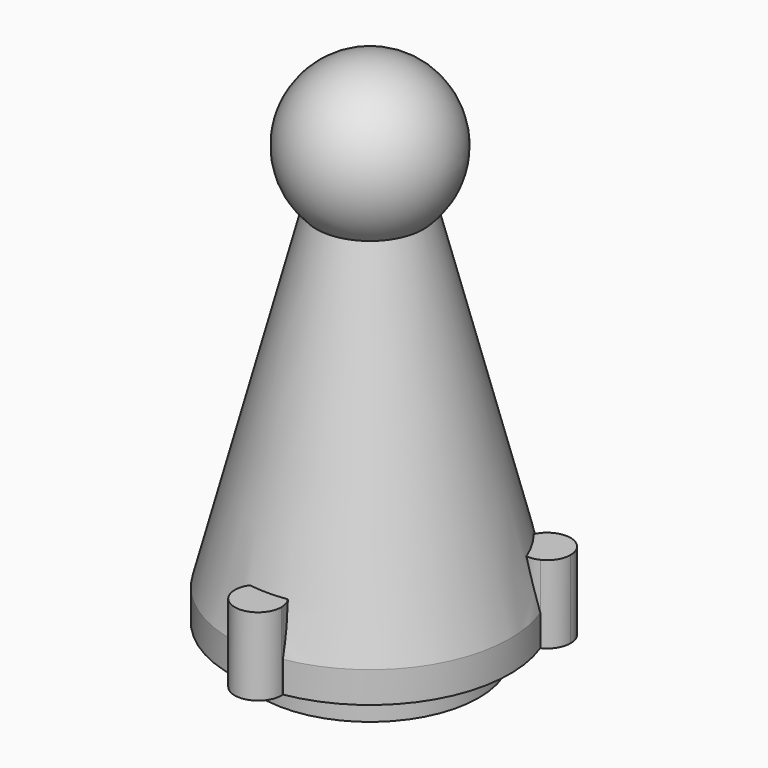
from build123d import *

# Parameters (mm, degrees)
F0_R      = 7
F1_DEPTH  = 2
F2_R      = 9
F2_R_2    = 7
F3_DEPTH  = 2
F3_FACE_R = 9
F5_R      = 2.5
F10_DEPTH = 5


with BuildPart() as f1:
    # F0 (on Top) → F1 (new body)
    with BuildSketch(Plane.XY):
        Circle(F0_R)
    extrude(amount=F1_DEPTH)

    # F2 (on face) → F3 (join)
    with BuildSketch(Plane.XY.offset(2)):
        Circle(F2_R)
        Circle(F2_R_2, mode=Mode.SUBTRACT)
        Circle(F2_R_2)
    extrude(amount=F3_DEPTH)

    # F3_face (on face) → F6 section 0
    with BuildSketch(Plane.XY.offset(4)):
        Circle(F3_FACE_R)
    # F5 (on offset) → F6 section 1
    with BuildSketch(Plane.XY.offset(29)):
        Circle(F5_R)
    loft()

    # F7 (on face) → F8 (revolve)
    with BuildSketch(Plane.XY.offset(29)):
        with BuildLine():
            Line((2.5, 0), (5, 0))
            ThreePointArc((5, 0), (0, 5), (-5, 0))
            Line((-5, 0), (-2.5, 0))
            ThreePointArc((-2.5, 0), (0, 2.5), (2.5, 0))
        make_face()
        with BuildLine():
            ThreePointArc((-2.5, 0), (0, -2.5), (2.5, 0))
            Line((2.5, 0), (-2.5, 0))
        make_face()
    revolve(axis=Axis((0, 0, 29), (1, 0, 0)))

    # F9 (on face) → F10 (join)
    with BuildSketch(Plane(origin=(0, 0, 2), x_dir=(1, 0, 0), z_dir=(0, 0, -1))):
        with BuildLine():
            ThreePointArc((1.4947825929, 8.875), (0, 9), (-1.4947825929, 8.875))
            ThreePointArc((-1.4947825929, 8.875), (0, 7.5), (1.4947825929, 8.875))
        make_face()
        with BuildLine():
            ThreePointArc((1.4947825929, 8.875), (1.4986950806, 8.937445581), (1.5, 9))
            ThreePointArc((1.5, 9), (-0.062554419, 10.4986950806), (-1.4947825929, 8.875))
            ThreePointArc((-1.4947825929, 8.875), (0, 9), (1.4947825929, 8.875))
        make_face()
        with BuildLine():
            ThreePointArc((-6.2942286341, -4.5), (-6.9907073778, -3.2333691972), (-8.433366755, -3.1429803014))
            ThreePointArc((-8.433366755, -3.1429803014), (-7.7942286341, -4.5), (-6.9385841621, -5.7320196986))
            ThreePointArc((-6.9385841621, -5.7320196986), (-6.4650434122, -5.1951738244), (-6.2942286341, -4.5))
        make_face()
        with BuildLine():
            ThreePointArc((-6.9385841621, -5.7320196986), (-7.7942286341, -4.5), (-8.433366755, -3.1429803014))
            ThreePointArc((-8.433366755, -3.1429803014), (-9.0932667397, -5.25), (-6.9385841621, -5.7320196986))
        make_face()
        with BuildLine():
            ThreePointArc((6.9385841621, -5.7320196986), (7.7942286341, -4.5), (8.433366755, -3.1429803014))
            ThreePointArc((8.433366755, -3.1429803014), (6.4951905284, -3.75), (6.9385841621, -5.7320196986))
        make_face()
        with BuildLine():
            ThreePointArc((9.2942286341, -4.5), (9.0608594369, -3.6964787437), (8.433366755, -3.1429803014))
            ThreePointArc((8.433366755, -3.1429803014), (7.7942286341, -4.5), (6.9385841621, -5.7320196986))
            ThreePointArc((6.9385841621, -5.7320196986), (8.4894024584, -5.8291852218), (9.2942286341, -4.5))
        make_face()
    extrude(amount=-F10_DEPTH)


solid = f1.part
